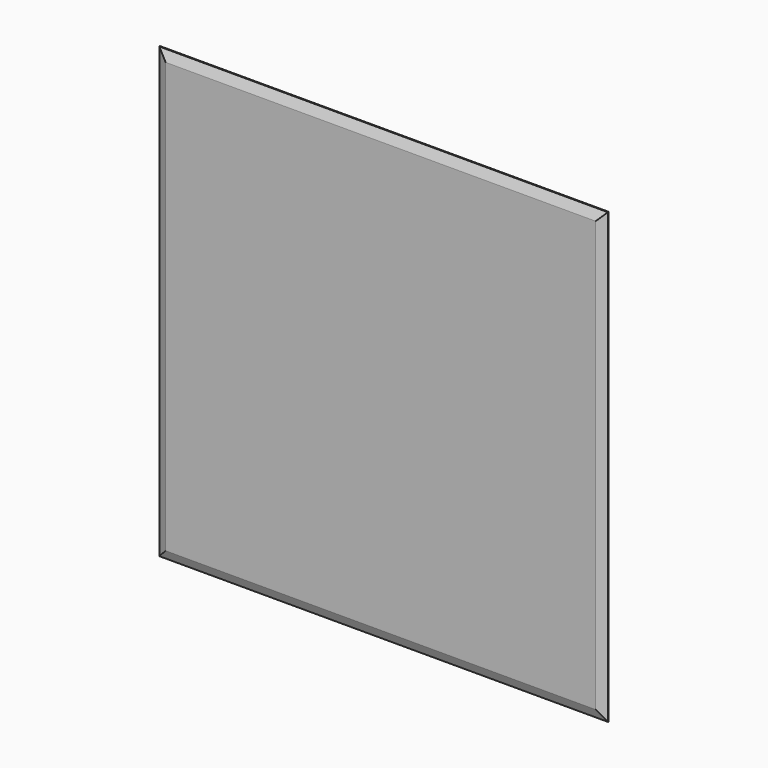
from build123d import *

# Parameters (mm, degrees)
F0_W     = 609.6
F0_H     = 609.6
F1_DEPTH = 6.35
F2_SIZE2 = 5.08
F2_SIZE  = 12.7


with BuildPart() as f1:
    # F0 (on Front) → F1 (new body)
    with BuildSketch(Plane.XZ):
        Rectangle(F0_W, F0_H)
    extrude(amount=F1_DEPTH)

    # F2
    f2_edges = [f1.edges().sort_by_distance(p)[0] for p in [
        (304.8, -6.35, 0),
        (0, -6.35, 304.8),
        (-304.8, -6.35, 0),
        (0, -6.35, -304.8),
    ]]
    f2_side = f1.faces().sort_by_distance((0, -6.35, 0))[0]
    chamfer(f2_edges, length=F2_SIZE, length2=F2_SIZE2, reference=f2_side)


solid = f1.part
